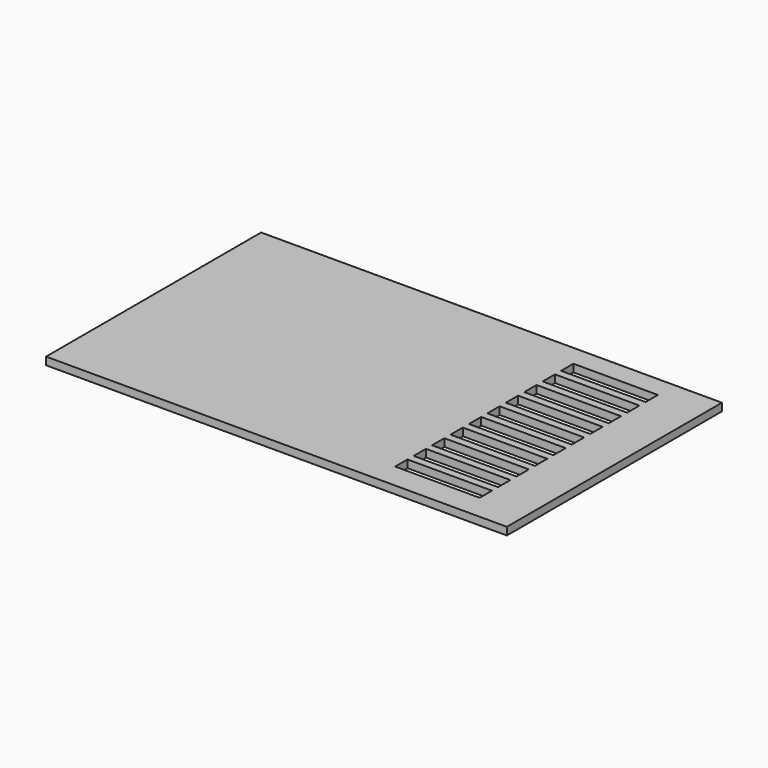
from build123d import *

# Parameters (mm, degrees)
F0_W     = 152.4
F0_H     = 88.9
F0_W_2   = 27.94
F0_H_2   = 2.54
F1_DEPTH = 2.54


with BuildPart() as f1:
    # F0 (on Top) → F1 (new body)
    with BuildSketch(Plane.XY):
        with Locations((37.940328, 20.910674)):
            Rectangle(F0_W, F0_H)
        Polygon((70.569754, 53.34), (70.569754, 58.42), (98.509754, 58.42), (98.509754, 53.34), (98.509754, 50.8), (98.509754, 45.72), (98.509754, 44.100642), (98.509754, 43.18), (98.509754, 42.35965), (98.509754, 38.1), (98.509754, 38.074128), (98.509754, 35.56), (98.509754, 30.48), (98.509754, 27.94), (98.509754, 22.86), (98.509754, 20.32), (98.509754, 15.24), (98.509754, 12.7), (98.509754, 7.62), (98.509754, 5.08), (98.509754, 0), (98.509754, -2.54), (98.509754, -7.62), (98.509754, -10.16), (98.509754, -15.24), (70.569754, -15.24), (70.569754, -10.16), (70.569754, -7.62), (70.569754, -2.54), (70.569754, 0), (70.569754, 5.08), (70.569754, 7.62), (70.569754, 12.7), (70.569754, 15.24), (70.569754, 20.32), (70.569754, 21.59), (70.569754, 22.86), (70.569754, 27.94), (70.569754, 30.48), (70.569754, 35.42155), (70.569754, 35.56), (70.569754, 38.1), (70.569754, 42.35965), (70.569754, 43.18), (70.569754, 44.100642), (70.569754, 45.72), (70.569754, 50.8), align=None, mode=Mode.SUBTRACT)
        with Locations((84.539754, 13.97)):
            Rectangle(F0_W_2, F0_H_2)
        with Locations((84.539754, 6.35)):
            Rectangle(F0_W_2, F0_H_2)
        with Locations((84.539754, -1.27)):
            Rectangle(F0_W_2, F0_H_2)
        with Locations((84.539754, -8.89)):
            Rectangle(F0_W_2, F0_H_2)
        Polygon((98.509754, 45.72), (70.569754, 45.72), (70.569754, 44.100642), (70.569754, 43.18), (98.509754, 43.18), (98.509754, 44.100642), align=None)
        with Locations((84.539754, 52.07)):
            Rectangle(F0_W_2, F0_H_2)
        Polygon((98.509754, 22.86), (70.569754, 22.86), (70.569754, 21.59), (70.569754, 20.32), (98.509754, 20.32), align=None)
        with Locations((84.539754, 29.21)):
            Rectangle(F0_W_2, F0_H_2)
        Polygon((98.509754, 38.1), (70.569754, 38.1), (70.569754, 35.56), (98.509754, 35.56), (98.509754, 38.074128), align=None)
    extrude(amount=F1_DEPTH)


solid = f1.part
